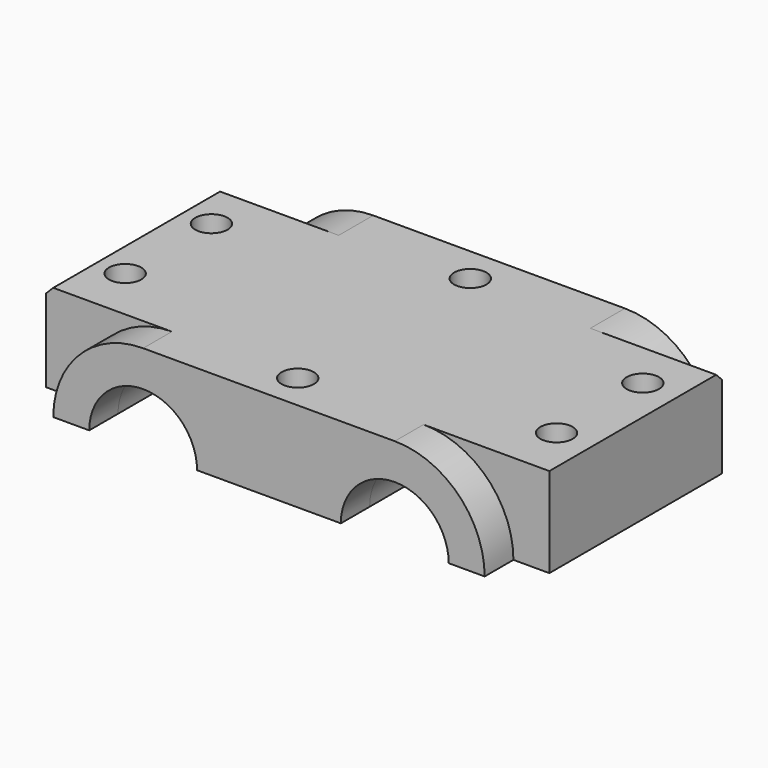
from build123d import *

# Parameters (mm, degrees)
PAD_DEPTH         = 12.5
CHAMFER_SIZE      = 1
PAD001_DEPTH      = 5
PAD001_DEPTH_BACK = 35
SKETCH002_R       = 7.5
POCKET_DEPTH      = 35.001
SKETCH003_R       = 2.25
POCKET001_DEPTH   = 12.501


with BuildPart() as part:
    # Sketch → Pad (new body)
    with BuildSketch(Plane.XY):
        Polygon((-35, 15), (-35, -15), (-30, -15), (30, -15), (35, -15), (35, 15), (30, 15), (-30, 15), align=None)
    extrude(amount=PAD_DEPTH)

    # Chamfer
    chamfer_edges = [part.edges().sort_by_distance(p)[0] for p in [
        (0, 15, 12.5),
        (-35, 0, 12.5),
    ]]
    chamfer(chamfer_edges, length=CHAMFER_SIZE)

    # Sketch001 → Pad001 (new body, two sides)
    with BuildSketch(Plane.XZ.offset(15)) as pad001_sk:
        with BuildLine():
            ThreePointArc((-10, 0), (-17.5, 7.5), (-25, 0))
            Line((-25, 0), (-30, 0))
            ThreePointArc((-17.499993, 12.5), (-26.338832, 8.838837), (-30, 0))
            Line((-17.499993, 12.5), (17.500032, 12.5))
            ThreePointArc((30, 0), (26.338846, 8.838823), (17.500032, 12.5))
            Line((25, 0), (30, 0))
            ThreePointArc((25, 0), (17.5, 7.5), (10, 0))
            Line((10, 0), (-10, 0))
        make_face()
    extrude(amount=PAD001_DEPTH)
    extrude(pad001_sk.sketch, amount=-PAD001_DEPTH_BACK)

    # Sketch002 → Pocket (cut, through all)
    with BuildSketch(Plane(origin=(0, 15, 0), x_dir=(-1, 0, 0), z_dir=(0, 1, 0))):
        with Locations((-17.5, 0)):
            Circle(SKETCH002_R)
        with Locations((17.5, 0)):
            Circle(SKETCH002_R)
    extrude(amount=-POCKET_DEPTH, mode=Mode.SUBTRACT)

    # Sketch003 → Pocket001 (cut, through all)
    with BuildSketch(Plane.XY.offset(12.5)):
        with Locations((0, 15)):
            Circle(SKETCH003_R)
        with Locations((0, -15)):
            Circle(SKETCH003_R)
        with Locations((-30, 7.5)):
            Circle(SKETCH003_R)
        with Locations((-30, -7.5)):
            Circle(SKETCH003_R)
        with Locations((30, 7.5)):
            Circle(SKETCH003_R)
        with Locations((30, -7.5)):
            Circle(SKETCH003_R)
    extrude(amount=-POCKET001_DEPTH, mode=Mode.SUBTRACT)


solid = part.part
